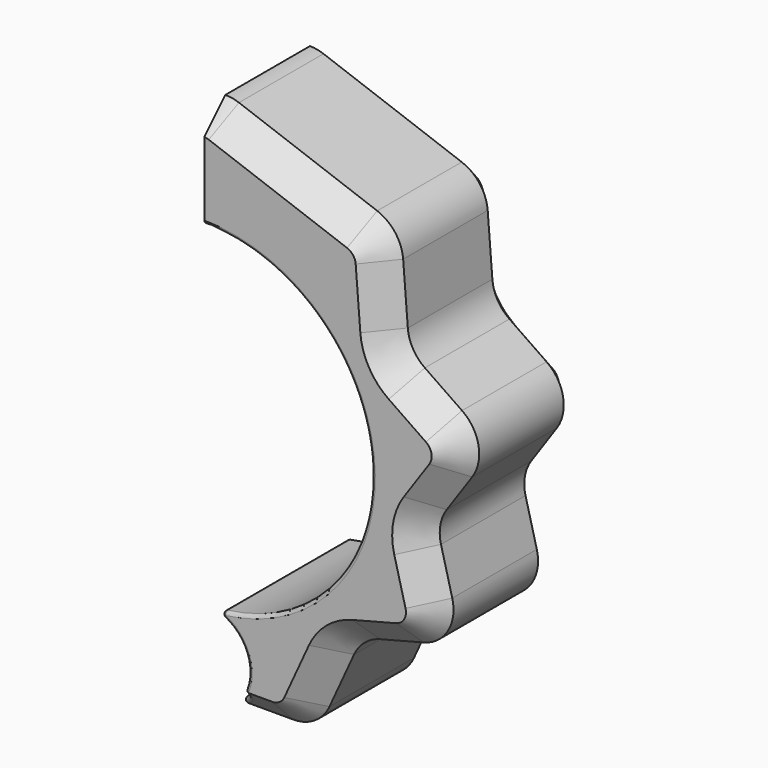
from build123d import *

# Parameters (mm, degrees)
F1_DEPTH = 12
F2_SIZE  = 4
F3_R     = 0.5


with BuildPart() as f1:
    # F0 (on Front) → F1 (new body, symmetric)
    with BuildSketch(Plane.XZ):
        with BuildLine():
            ThreePointArc((0, 25.4), (17.9605122421, 17.9605122421), (25.4, 0))
            ThreePointArc((25.4, 0), (17.960512275, -17.9605122093), (9.29e-08, -25.4))
            ThreePointArc((9.29e-08, -25.4), (4.7741285166, -27.3775087993), (6.7516372503, -32.1516372503))
            ThreePointArc((6.7516372503, -32.1516372503), (4.7741284796, -36.9257657382), (-1.17e-08, -38.9032745005))
            Line((-1.17e-08, -38.9032745005), (10.3008317404, -38.9032745005))
            ThreePointArc((10.3008317404, -38.9032745005), (13.5463647423, -37.9497104244), (15.7602898513, -35.3921130117))
            Line((15.7602898513, -35.3921130117), (19.4799389408, -27.2327775224))
            ThreePointArc((19.4799389408, -27.2327775224), (21.0826713936, -25.1253493748), (23.436394542, -23.9129170867))
            Line((23.436394542, -23.9129170867), (30.0447527698, -22.2030025098))
            ThreePointArc((30.0447527698, -22.2030025098), (33.711903942, -19.4388907113), (34.3504492069, -14.8913010531))
            Line((34.3504492069, -14.8913010531), (32.6404524675, -8.2826252895))
            ThreePointArc((32.6404524675, -8.2826252895), (32.5403048963, -5.7377337137), (33.5048170115, -3.3805703659))
            Line((33.5048170115, -3.3805703659), (37.3719885609, 2.2447001525))
            ThreePointArc((37.3719885609, 2.2447001525), (38.3273195541, 6.7364319396), (35.8267065718, 10.5880869692))
            Line((35.8267065718, 10.5880869692), (30.2017063382, 14.4550727075))
            ThreePointArc((30.2017063382, 14.4550727075), (28.4046063293, 16.3994071105), (27.6193133474, 18.9279085728))
            Line((27.6193133474, 18.9279085728), (26.9146436396, 27.8673708373))
            ThreePointArc((26.9146436396, 27.8673708373), (25.7089843853, 31.0279332361), (22.9853190949, 33.0340280244))
            Line((22.9853190949, 33.0340280244), (2.05212086, 40.6530890899))
            ThreePointArc((2.05212086, 40.6530890899), (1.041889066, 40.9237798832), (0, 41.0149333651))
            Line((0, 41.0149333651), (0, 25.4))
        make_face()
    extrude(amount=F1_DEPTH, both=True)

    # F2
    f2_edges = [f1.edges().sort_by_distance(p)[0] for p in [
        (12.51872, -12, 36.843559),
        (27.266978, 12, 23.39764),
    ]]
    chamfer(f2_edges, length=F2_SIZE)

    # F3
    f3_edges = [f1.edges().sort_by_distance(p)[0] for p in [
        (0, 0, -25.4),
        (0, 0, -38.903275),
        (5.664038, -12, -28.476957),
        (3.958062, -9.28187, -37.621404),
        (5.664038, 12, -28.476957),
        (3.958062, 9.28187, -37.621404),
        (25.4, -12, 0),
        (25.4, 12, 0),
        (0, 0, 25.4),
    ]]
    fillet(f3_edges, radius=F3_R)


solid = f1.part
